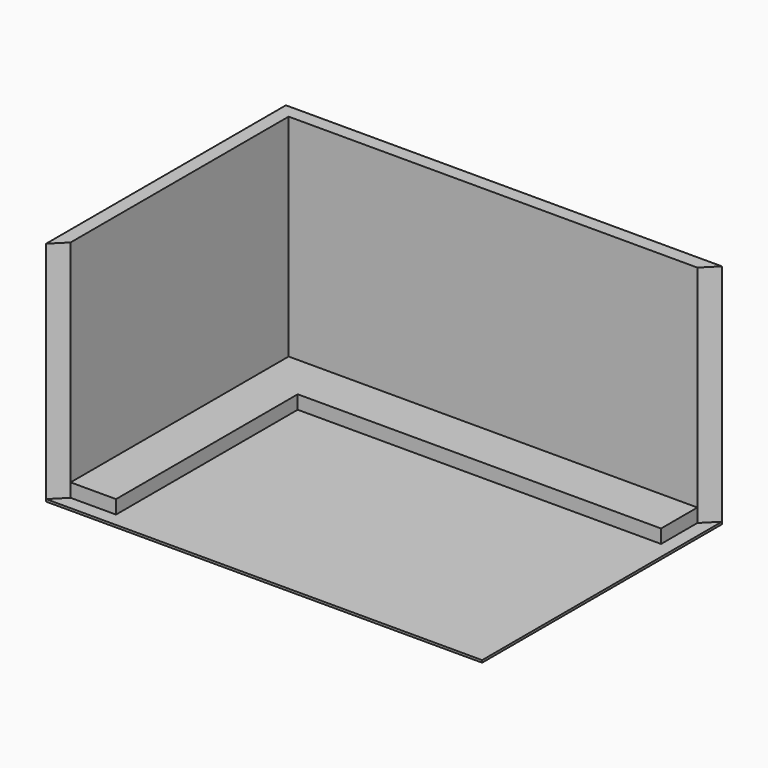
from build123d import *

# Parameters (mm, degrees)
F1_DEPTH = 2500
F2_DEPTH = 25
F4_W     = 4500
F4_H     = 150
F5_DEPTH = 500
F3_W     = 3000
F3_H     = 150
F6_DEPTH = 500


with BuildPart() as f1:
    # F0 (on Top) → F1 (new body)
    with BuildSketch(Plane.XY):
        Polygon((-2246.385151, -1320.728417), (-2246.385151, 1679.271583), (2253.614849, 1679.271583), (2403.614849, 1829.271583), (-2396.385151, 1829.271583), (-2396.385151, -1470.728417), align=None)
    extrude(amount=F1_DEPTH)

    # F0 (on Top) → F2 (join)
    with BuildSketch(Plane.XY):
        Polygon((2253.614849, 1679.271583), (-2246.385151, 1679.271583), (-2246.385151, -1320.728417), (-2396.385151, -1470.728417), (2403.614849, -1470.728417), (2403.614849, 1829.271583), align=None)
    extrude(amount=F2_DEPTH)

    # F4 (on face) → F5 (join)
    with BuildSketch(Plane.XZ.offset(-1679.271583)):
        with Locations((3.614849, 100)):
            Rectangle(F4_W, F4_H)
    extrude(amount=F5_DEPTH)

    # F3 (on face) → F6 (join)
    with BuildSketch(Plane.YZ.offset(-2246.385151)):
        with Locations((179.271583, 100)):
            Rectangle(F3_W, F3_H)
    extrude(amount=F6_DEPTH)


solid = f1.part
